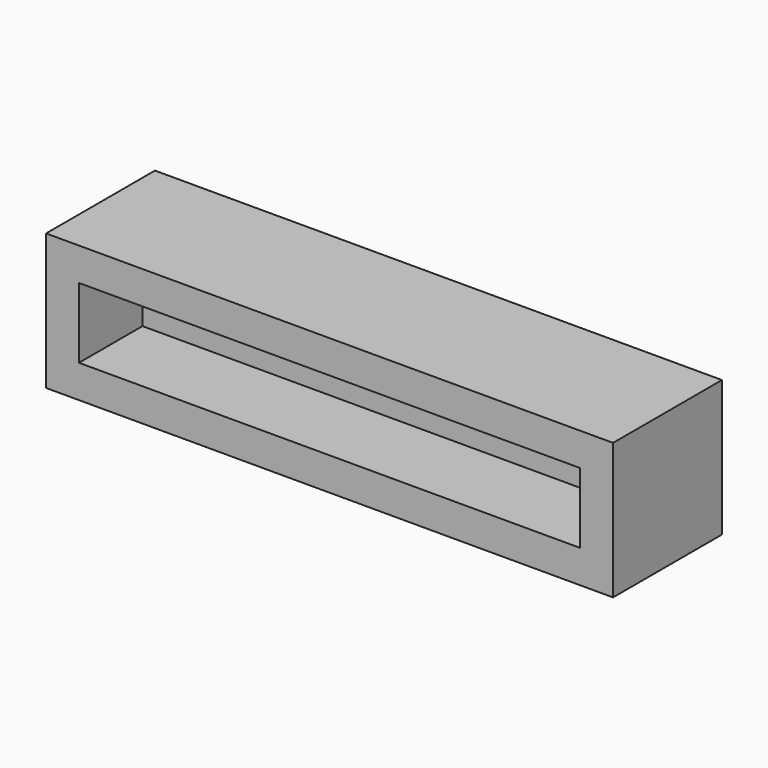
from build123d import *

# Parameters (mm, degrees)
F0_W     = 50
F0_H     = 12
F1_DEPTH = 12
F2_W     = 44.2
F2_H     = 6.2
F3_DEPTH = 7
F4_R     = 1.35
F5_DEPTH = 5


with BuildPart() as f1:
    # F0 (on Front) → F1 (new body)
    with BuildSketch(Plane.XZ):
        Rectangle(F0_W, F0_H)
    extrude(amount=F1_DEPTH)

    # F2 (on face) → F3 (cut)
    with BuildSketch(Plane.XZ.offset(12)):
        Rectangle(F2_W, F2_H)
    extrude(amount=-F3_DEPTH, mode=Mode.SUBTRACT)

    # F4 (on face) → F5 (cut, through all)
    with BuildSketch(Plane.XZ.offset(5)):
        with Locations((-17.7, 0)):
            Circle(F4_R)
        with Locations((16.3, 0)):
            Circle(F4_R)
    extrude(amount=-F5_DEPTH, mode=Mode.SUBTRACT)


solid = f1.part
